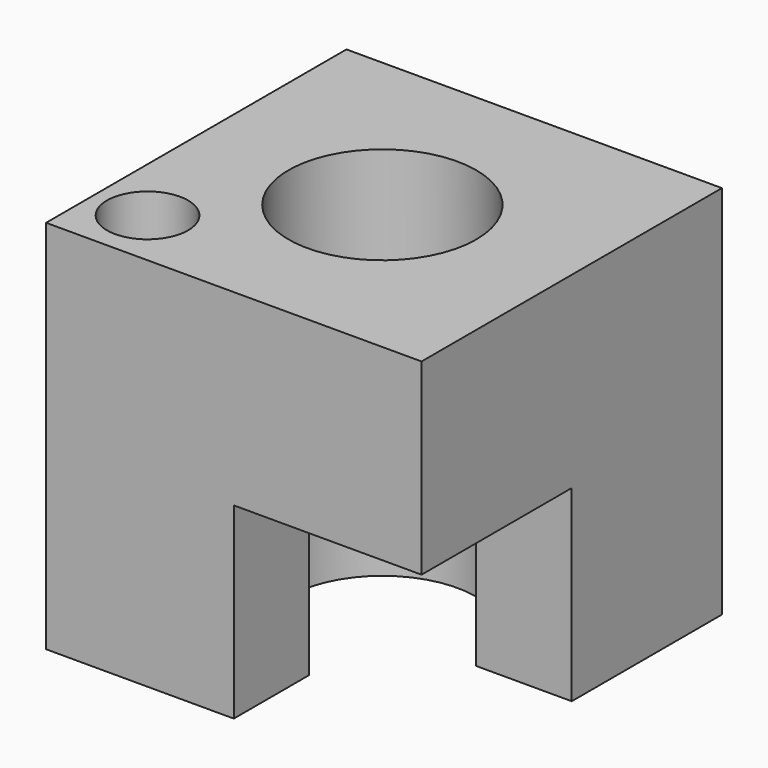
from build123d import *

# Parameters (mm, degrees)
F0_W     = 101.6
F0_H     = 101.6
F1_DEPTH = 101.6
F2_R     = 25.4
F3_DEPTH = 101.6
F4_W     = 50.8
F4_H     = 50.8
F5_DEPTH = 50.8
F6_R     = 10.971648
F7_DEPTH = 101.6


with BuildPart() as f1:
    # F0 (on Front) → F1 (new body)
    with BuildSketch(Plane.XZ):
        with Locations((-50.8, 50.8)):
            Rectangle(F0_W, F0_H)
    extrude(amount=F1_DEPTH)

    # F2 (on face) → F3 (cut)
    with BuildSketch(Plane.XY.offset(101.6)):
        with Locations((-51.241014, -50.795451)):
            Circle(F2_R)
    extrude(amount=-F3_DEPTH, mode=Mode.SUBTRACT)

    # F4 (on face) → F5 (cut)
    with BuildSketch(Plane.YZ):
        with Locations((-76.2, 25.4)):
            Rectangle(F4_W, F4_H)
    extrude(amount=-F5_DEPTH, mode=Mode.SUBTRACT)

    # F6 (on face) → F7 (cut)
    with BuildSketch(Plane.XY.offset(101.6)):
        with Locations((-86.970754, -85.573204)):
            Circle(F6_R)
    extrude(amount=-F7_DEPTH, mode=Mode.SUBTRACT)


solid = f1.part
